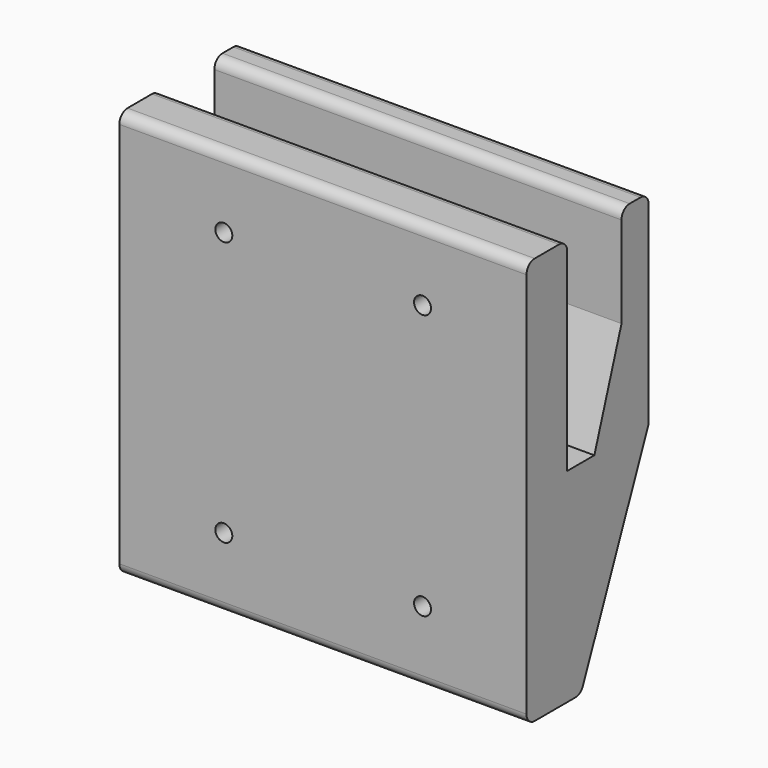
from build123d import *

# Parameters (mm, degrees)
F1_DEPTH = 120
F2_R     = 2.5
F3_DEPTH = 45.001
F4_R     = 6
F4_R_2   = 6.300335
F5_DEPTH = 50.546
F6_DEPTH = 5
F7_R     = 3


with BuildPart() as f1:
    # F0 (on Right) → F1 (new body)
    with BuildSketch(Plane.YZ):
        Polygon((0, 60), (0, 0), (0, -60), (20, -60), (45, 0), (45, 60), (35, 60), (35, 30.086774), (25, 0), (15, 0), (15, 60), align=None)
    extrude(amount=F1_DEPTH)

    # F2 (on face) → F3 (cut, through all)
    with BuildSketch(Plane.XZ):
        with Locations((89.356575, 39.11762)):
            Circle(F2_R)
        with Locations((30.790308, 38.970736)):
            Circle(F2_R)
        with Locations((30.790308, -38.970736)):
            Circle(F2_R)
        with Locations((89.356575, -38.970736)):
            Circle(F2_R)
    extrude(amount=-F3_DEPTH, mode=Mode.SUBTRACT)

    # F4 (on face) → F5 (cut)
    with BuildSketch(Plane(origin=(0, 15, 0), x_dir=(-1, 0, 0), z_dir=(0, 1, 0))):
        with Locations((-89.356575, 39.11762)):
            Circle(F4_R)
        with Locations((-30.790308, 38.970736)):
            Circle(F4_R_2)
        with Locations((-89.356575, -39.11762)):
            Circle(F4_R)
        with Locations((-30.790308, -38.970736)):
            Circle(F4_R_2)
    extrude(amount=F5_DEPTH, mode=Mode.SUBTRACT)

    # F4 (on face) → F6 (cut)
    with BuildSketch(Plane(origin=(0, 15, 0), x_dir=(-1, 0, 0), z_dir=(0, 1, 0))):
        with Locations((-89.356575, 39.11762)):
            Circle(F4_R)
        with Locations((-30.790308, 38.970736)):
            Circle(F4_R_2)
        with Locations((-89.356575, -39.11762)):
            Circle(F4_R)
        with Locations((-30.790308, -38.970736)):
            Circle(F4_R_2)
    extrude(amount=-F6_DEPTH, mode=Mode.SUBTRACT)

    # F7
    f7_edges = [f1.edges().sort_by_distance(p)[0] for p in [
        (60, 0, 60),
        (60, 15, 60),
        (60, 35, 60),
        (60, 45, 60),
        (60, 0, -60),
        (60, 20, -60),
    ]]
    fillet(f7_edges, radius=F7_R)


solid = f1.part
